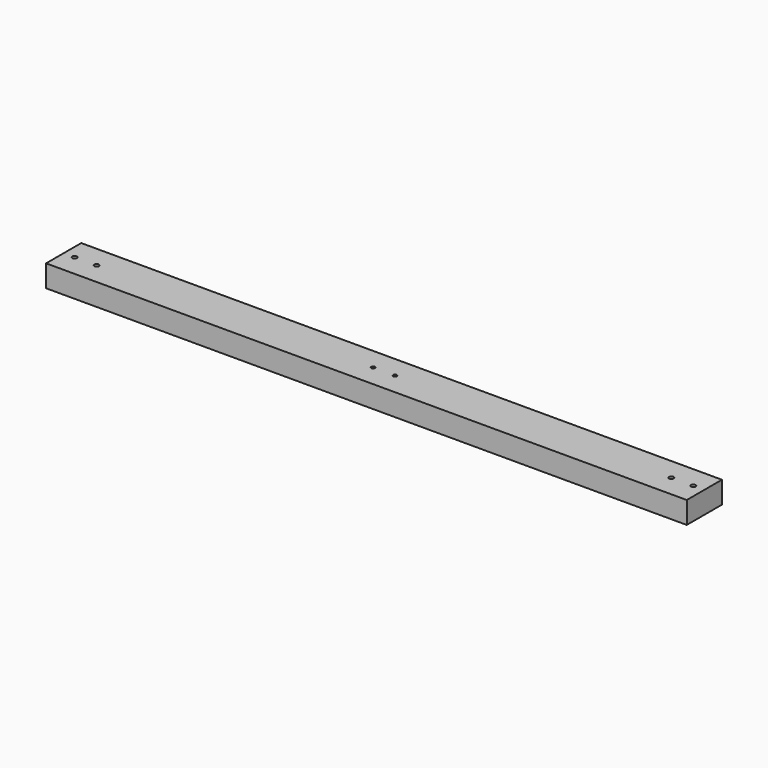
from build123d import *

# Parameters (mm, degrees)
F1_R     = 2.5
F1_R_2   = 2
F2_DEPTH = 24


with BuildPart() as f2:
    # F1 (on Top) → F2 (new body)
    with BuildSketch(Plane.XY):
        Polygon((-350, -24), (350, -24), (350, 0), (350, 24), (-350, 24), align=None)
        with Locations((-338, 0)):
            Circle(F1_R, mode=Mode.SUBTRACT)
        with Locations((-314, 0)):
            Circle(F1_R, mode=Mode.SUBTRACT)
        with Locations((-12, 0)):
            Circle(F1_R_2, mode=Mode.SUBTRACT)
        with BuildLine():
            ThreePointArc((14, 0), (12, -2), (10, 0))
            ThreePointArc((10, 0), (12, 2), (14, 0))
        make_face(mode=Mode.SUBTRACT)
        with Locations((314, 0)):
            Circle(F1_R, mode=Mode.SUBTRACT)
        with BuildLine():
            ThreePointArc((335.5, 0), (338, 2.5), (340.5, 0))
            ThreePointArc((340.5, 0), (338, -2.5), (335.5, 0))
        make_face(mode=Mode.SUBTRACT)
    extrude(amount=F2_DEPTH)


solid = f2.part
